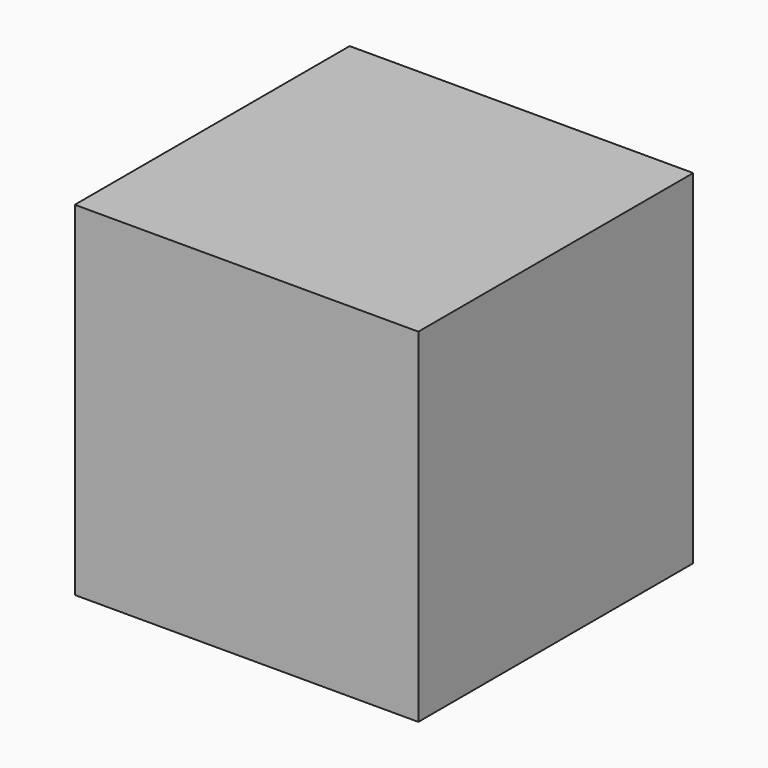
from build123d import *

# Parameters (mm, degrees)
SKETCH_W  = 40
SKETCH_H  = 40
PAD_DEPTH = 40


with BuildPart() as part:
    # Sketch → Pad (new body)
    with BuildSketch(Plane.XY):
        with Locations((20, 20)):
            Rectangle(SKETCH_W, SKETCH_H)
    extrude(amount=PAD_DEPTH)


solid = part.part
